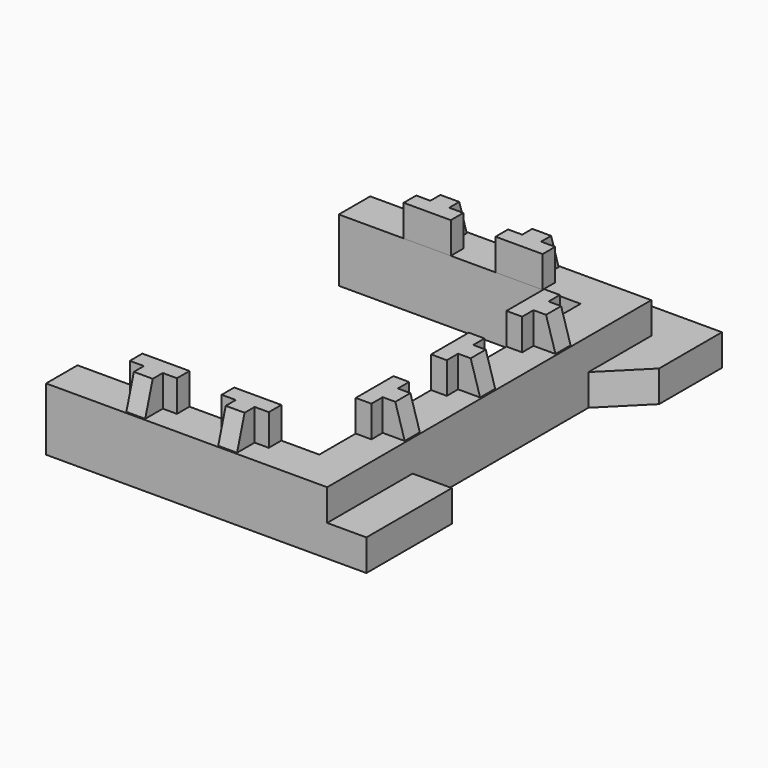
from build123d import *

# Parameters (mm, degrees)
PAD_DEPTH               = 20
POCKET_DEPTH            = 10
PAD001_DEPTH            = 10
POCKET001_DEPTH         = 10.501002
PAD002_DEPTH            = 10
POCKET002_DEPTH         = 10.501002
PAD004_DEPTH            = 10
POCKET004_DEPTH         = 10.501002
BODY005_PLACEMENT_ANGLE = 180
PAD005_DEPTH            = 10
POCKET005_DEPTH         = 10.501002
BODY006_PLACEMENT_ANGLE = 180
PAD006_DEPTH            = 10
POCKET006_DEPTH         = 10.501002
BODY007_PLACEMENT_ANGLE = 90
PAD007_DEPTH            = 10
POCKET007_DEPTH         = 10.501002
BODY008_PLACEMENT_ANGLE = 90
PAD008_DEPTH            = 10
POCKET008_DEPTH         = 10.501002
BODY009_PLACEMENT_ANGLE = 90


with BuildPart() as obj1:
    # Sketch → Pad (new body)
    with BuildSketch(Plane.XY):
        Polygon((-43, 116.5), (-12.5, 116.5), (0, 129), (25, 129), (25, 104), (12.5, 91.5), (12.5, 21.5), (25, 21.5), (25, -12.5), (12.5, -12.5), (-77, -12.5), (-77, 0), (0, 0), (0, 104), (-77, 104), (-77, 116.5), (-77, 129), (-43, 129), align=None)
    extrude(amount=PAD_DEPTH)

    # Sketch018 (on Face20 of Pad) → Pocket (cut)
    with BuildSketch(Plane.XY.offset(20)):
        Polygon((12.5, -12.5), (12.5, 116.5), (-77, 116.5), (-77, 129), (25, 129), (25, -12.5), align=None)
    extrude(amount=-POCKET_DEPTH, mode=Mode.SUBTRACT)


with BuildPart() as obj1_1:
    # Body placement: moved
    add(obj1.part.moved(Location((3, 0, 0))))


with BuildPart() as obj2:
    # Sketch002 → Pad001 (new body)
    with BuildSketch(Plane.XY):
        Polygon((4, -35), (19, -35), (19, -40), (14.499998, -40), (14.499998, -47), (8.499998, -47), (8.499998, -40), (3.999996, -40), align=None)
    extrude(amount=PAD001_DEPTH)

    # Sketch003 (on Face4 of Pad001) → Pocket001 (cut, through all)
    with BuildSketch(Plane.YZ.offset(14.499998)):
        Polygon((-44, 10), (-47, 0), (-47, 10), align=None)
    extrude(amount=-POCKET001_DEPTH, mode=Mode.SUBTRACT)


with BuildPart() as obj2_1:
    # Body002 placement: moved
    add(obj2.part.moved(Location((-57.34, 35, 20))))


with BuildPart() as obj3:
    # Sketch004 → Pad002 (new body)
    with BuildSketch(Plane.XY):
        Polygon((4, -35), (19, -35), (19, -40), (14.499998, -40), (14.499998, -47), (8.499998, -47), (8.499998, -40), (3.999996, -40), align=None)
    extrude(amount=PAD002_DEPTH)

    # Sketch005 (on Face4 of Pad002) → Pocket002 (cut, through all)
    with BuildSketch(Plane.YZ.offset(14.499998)):
        Polygon((-44, 10), (-47, 0), (-47, 10), align=None)
    extrude(amount=-POCKET002_DEPTH, mode=Mode.SUBTRACT)


with BuildPart() as obj3_1:
    # Body003 placement: moved
    add(obj3.part.moved(Location((-28.09, 35, 20))))


with BuildPart() as obj4:
    # Sketch008 → Pad004 (new body)
    with BuildSketch(Plane.XY):
        Polygon((4, -35), (19, -35), (19, -40), (14.499998, -40), (14.499998, -47), (8.499998, -47), (8.499998, -40), (3.999996, -40), align=None)
    extrude(amount=PAD004_DEPTH)

    # Sketch009 (on Face4 of Pad004) → Pocket004 (cut, through all)
    with BuildSketch(Plane.YZ.offset(14.499998)):
        Polygon((-44, 10), (-47, 0), (-47, 10), align=None)
    extrude(amount=-POCKET004_DEPTH, mode=Mode.SUBTRACT)


with BuildPart() as obj4_1:
    # Body005 placement: moved
    add(obj4.part.moved(Location((-5.09, 69, 20))).rotate(Axis((-5.09, 69, 20), (0, 0, 1)), BODY005_PLACEMENT_ANGLE))


with BuildPart() as obj5:
    # Sketch010 → Pad005 (new body)
    with BuildSketch(Plane.XY):
        Polygon((4, -35), (19, -35), (19, -40), (14.499998, -40), (14.499998, -47), (8.499998, -47), (8.499998, -40), (3.999996, -40), align=None)
    extrude(amount=PAD005_DEPTH)

    # Sketch011 (on Face4 of Pad005) → Pocket005 (cut, through all)
    with BuildSketch(Plane.YZ.offset(14.499998)):
        Polygon((-44, 10), (-47, 0), (-47, 10), align=None)
    extrude(amount=-POCKET005_DEPTH, mode=Mode.SUBTRACT)


with BuildPart() as obj5_1:
    # Body006 placement: moved
    add(obj5.part.moved(Location((-34.34, 69, 20))).rotate(Axis((-34.34, 69, 20), (0, 0, 1)), BODY006_PLACEMENT_ANGLE))


with BuildPart() as obj6:
    # Sketch012 → Pad006 (new body)
    with BuildSketch(Plane.XY):
        Polygon((4, -35), (19, -35), (19, -40), (14.499998, -40), (14.499998, -47), (8.499998, -47), (8.499998, -40), (3.999996, -40), align=None)
    extrude(amount=PAD006_DEPTH)

    # Sketch013 (on Face4 of Pad006) → Pocket006 (cut, through all)
    with BuildSketch(Plane.YZ.offset(14.499998)):
        Polygon((-44, 10), (-47, 0), (-47, 10), align=None)
    extrude(amount=-POCKET006_DEPTH, mode=Mode.SUBTRACT)


with BuildPart() as obj6_1:
    # Body007 placement: moved
    add(obj6.part.moved(Location((-32, 10.5, 20))).rotate(Axis((-32, 10.5, 20), (0, 0, 1)), BODY007_PLACEMENT_ANGLE))


with BuildPart() as obj7:
    # Sketch014 → Pad007 (new body)
    with BuildSketch(Plane.XY):
        Polygon((4, -35), (19, -35), (19, -40), (14.499998, -40), (14.499998, -47), (8.499998, -47), (8.499998, -40), (3.999996, -40), align=None)
    extrude(amount=PAD007_DEPTH)

    # Sketch015 (on Face4 of Pad007) → Pocket007 (cut, through all)
    with BuildSketch(Plane.YZ.offset(14.499998)):
        Polygon((-44, 10), (-47, 0), (-47, 10), align=None)
    extrude(amount=-POCKET007_DEPTH, mode=Mode.SUBTRACT)


with BuildPart() as obj7_1:
    # Body008 placement: moved
    add(obj7.part.moved(Location((-32, 40.5, 20))).rotate(Axis((-32, 40.5, 20), (0, 0, 1)), BODY008_PLACEMENT_ANGLE))


with BuildPart() as obj8:
    # Sketch016 → Pad008 (new body)
    with BuildSketch(Plane.XY):
        Polygon((4, -35), (19, -35), (19, -40), (14.499998, -40), (14.499998, -47), (8.499998, -47), (8.499998, -40), (3.999996, -40), align=None)
    extrude(amount=PAD008_DEPTH)

    # Sketch017 (on Face4 of Pad008) → Pocket008 (cut, through all)
    with BuildSketch(Plane.YZ.offset(14.499998)):
        Polygon((-44, 10), (-47, 0), (-47, 10), align=None)
    extrude(amount=-POCKET008_DEPTH, mode=Mode.SUBTRACT)


with BuildPart() as obj8_1:
    # Body009 placement: moved
    add(obj8.part.moved(Location((-32, 70.5, 20))).rotate(Axis((-32, 70.5, 20), (0, 0, 1)), BODY009_PLACEMENT_ANGLE))


solid = Compound([obj1_1.part, obj2_1.part, obj3_1.part, obj4_1.part, obj5_1.part, obj6_1.part, obj7_1.part, obj8_1.part])
